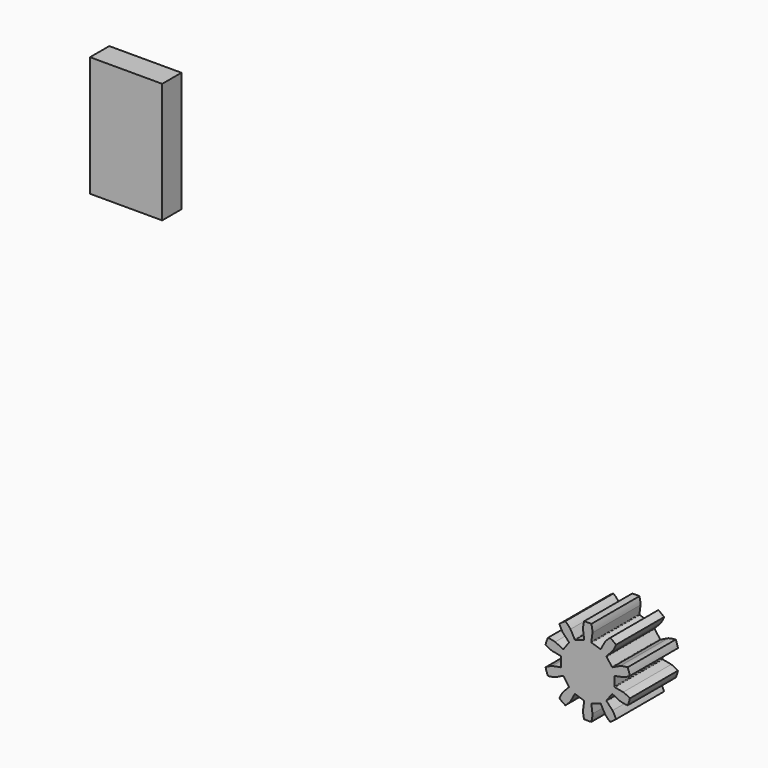
from build123d import *

# Parameters (mm, degrees)
F1_DEPTH = 5
F2_W     = 6
F2_H     = 10
F3_DEPTH = 2


with BuildPart() as f1:
    # F0 (on Front) → F1 (new body)
    with BuildSketch(Plane.XZ):
        with BuildLine():
            ThreePointArc((0.391763, 2.97431), (0.364898, 3.28374), (0.3, 3.587478))
            ThreePointArc((0.3, 3.587478), (0, 3.6), (-0.3, 3.587478))
            ThreePointArc((-0.3, 3.587478), (-0.364898, 3.28374), (-0.391763, 2.97431))
            Line((-0.391763, 2.97431), (-0.299872, 2.276662))
            ThreePointArc((-0.299872, 2.276662), (-0.307986, 2.239669), (-0.337881, 2.216417))
            Line((-0.337881, 2.216417), (-1.029426, 1.991721))
            ThreePointArc((-1.029426, 1.991721), (-1.067278, 1.99296), (-1.095587, 2.018119))
            Line((-1.095587, 2.018119), (-1.431313, 2.63654))
            ThreePointArc((-1.431313, 2.63654), (-1.634926, 2.871083), (-1.865962, 3.078666))
            ThreePointArc((-1.865962, 3.078666), (-2.116027, 2.912461), (-2.351372, 2.725995))
            ThreePointArc((-2.351372, 2.725995), (-2.225342, 2.44212), (-2.065198, 2.175995))
            Line((-2.065198, 2.175995), (-1.58079, 1.665598))
            ThreePointArc((-1.58079, 1.665598), (-1.565611, 1.630901), (-1.576129, 1.594518))
            Line((-1.576129, 1.594518), (-2.003527, 1.006254))
            ThreePointArc((-2.003527, 1.006254), (-2.034879, 0.985008), (-2.072569, 0.988722))
            Line((-2.072569, 0.988722), (-2.707676, 1.291701))
            ThreePointArc((-2.707676, 1.291701), (-3.010263, 1.36177), (-3.319189, 1.393909))
            ThreePointArc((-3.319189, 1.393909), (-3.423803, 1.112461), (-3.5046, 0.823275))
            ThreePointArc((-3.5046, 0.823275), (-3.235782, 0.667693), (-2.949799, 0.546524))
            Line((-2.949799, 0.546524), (-2.2579, 0.418332))
            ThreePointArc((-2.2579, 0.418332), (-2.225225, 0.399183), (-2.212349, 0.363567))
            Line((-2.212349, 0.363567), (-2.212349, -0.363567))
            ThreePointArc((-2.212349, -0.363567), (-2.225225, -0.399183), (-2.2579, -0.418332))
            Line((-2.2579, -0.418332), (-2.949799, -0.546524))
            ThreePointArc((-2.949799, -0.546524), (-3.235782, -0.667693), (-3.5046, -0.823275))
            ThreePointArc((-3.5046, -0.823275), (-3.423803, -1.112461), (-3.319189, -1.393909))
            ThreePointArc((-3.319189, -1.393909), (-3.010263, -1.36177), (-2.707676, -1.291701))
            Line((-2.707676, -1.291701), (-2.072569, -0.988722))
            ThreePointArc((-2.072569, -0.988722), (-2.034879, -0.985008), (-2.003527, -1.006254))
            Line((-2.003527, -1.006254), (-1.576129, -1.594518))
            ThreePointArc((-1.576129, -1.594518), (-1.565611, -1.630901), (-1.58079, -1.665598))
            Line((-1.58079, -1.665598), (-2.065198, -2.175995))
            ThreePointArc((-2.065198, -2.175995), (-2.225342, -2.44212), (-2.351372, -2.725995))
            ThreePointArc((-2.351372, -2.725995), (-2.116027, -2.912461), (-1.865962, -3.078666))
            ThreePointArc((-1.865962, -3.078666), (-1.634926, -2.871083), (-1.431313, -2.63654))
            Line((-1.431313, -2.63654), (-1.095587, -2.018119))
            ThreePointArc((-1.095587, -2.018119), (-1.067278, -1.99296), (-1.029426, -1.991721))
            Line((-1.029426, -1.991721), (-0.337881, -2.216417))
            ThreePointArc((-0.337881, -2.216417), (-0.307986, -2.239669), (-0.299872, -2.276662))
            Line((-0.299872, -2.276662), (-0.391763, -2.97431))
            ThreePointArc((-0.391763, -2.97431), (-0.364898, -3.28374), (-0.3, -3.587478))
            ThreePointArc((-0.3, -3.587478), (0, -3.6), (0.3, -3.587478))
            ThreePointArc((0.3, -3.587478), (0.364898, -3.28374), (0.391763, -2.97431))
            Line((0.391763, -2.97431), (0.299872, -2.276662))
            ThreePointArc((0.299872, -2.276662), (0.307986, -2.239669), (0.337881, -2.216417))
            Line((0.337881, -2.216417), (1.029426, -1.991721))
            ThreePointArc((1.029426, -1.991721), (1.067278, -1.99296), (1.095587, -2.018119))
            Line((1.095587, -2.018119), (1.431313, -2.63654))
            ThreePointArc((1.431313, -2.63654), (1.634926, -2.871083), (1.865962, -3.078666))
            ThreePointArc((1.865962, -3.078666), (2.116027, -2.912461), (2.351372, -2.725995))
            ThreePointArc((2.351372, -2.725995), (2.225342, -2.44212), (2.065198, -2.175995))
            Line((2.065198, -2.175995), (1.58079, -1.665598))
            ThreePointArc((1.58079, -1.665598), (1.565611, -1.630901), (1.576129, -1.594518))
            Line((1.576129, -1.594518), (2.003527, -1.006254))
            ThreePointArc((2.003527, -1.006254), (2.034879, -0.985008), (2.072569, -0.988722))
            Line((2.072569, -0.988722), (2.707676, -1.291701))
            ThreePointArc((2.707676, -1.291701), (3.010263, -1.36177), (3.319189, -1.393909))
            ThreePointArc((3.319189, -1.393909), (3.423803, -1.112461), (3.5046, -0.823275))
            ThreePointArc((3.5046, -0.823275), (3.235782, -0.667693), (2.949799, -0.546524))
            Line((2.949799, -0.546524), (2.2579, -0.418332))
            ThreePointArc((2.2579, -0.418332), (2.225225, -0.399183), (2.212349, -0.363567))
            Line((2.212349, -0.363567), (2.212349, 0.363567))
            ThreePointArc((2.212349, 0.363567), (2.225225, 0.399183), (2.2579, 0.418332))
            Line((2.2579, 0.418332), (2.949799, 0.546524))
            ThreePointArc((2.949799, 0.546524), (3.235782, 0.667693), (3.5046, 0.823275))
            ThreePointArc((3.5046, 0.823275), (3.423803, 1.112461), (3.319189, 1.393909))
            ThreePointArc((3.319189, 1.393909), (3.010263, 1.36177), (2.707676, 1.291701))
            Line((2.707676, 1.291701), (2.072569, 0.988722))
            ThreePointArc((2.072569, 0.988722), (2.034879, 0.985008), (2.003527, 1.006254))
            Line((2.003527, 1.006254), (1.576129, 1.594518))
            ThreePointArc((1.576129, 1.594518), (1.565611, 1.630901), (1.58079, 1.665598))
            Line((1.58079, 1.665598), (2.065198, 2.175995))
            ThreePointArc((2.065198, 2.175995), (2.225342, 2.44212), (2.351372, 2.725995))
            ThreePointArc((2.351372, 2.725995), (2.116027, 2.912461), (1.865962, 3.078666))
            ThreePointArc((1.865962, 3.078666), (1.634926, 2.871083), (1.431313, 2.63654))
            Line((1.431313, 2.63654), (1.095587, 2.018119))
            ThreePointArc((1.095587, 2.018119), (1.067278, 1.99296), (1.029426, 1.991721))
            Line((1.029426, 1.991721), (0.337881, 2.216417))
            ThreePointArc((0.337881, 2.216417), (0.307986, 2.239669), (0.299872, 2.276662))
            Line((0.299872, 2.276662), (0.391763, 2.97431))
        make_face()
    extrude(amount=F1_DEPTH)


with BuildPart() as f3:
    # F2 (on Front) → F3 (new body)
    with BuildSketch(Plane.XZ):
        with Locations((-40.790888, 24.521398)):
            Rectangle(F2_W, F2_H)
    extrude(amount=F3_DEPTH)


solid = Compound([f1.part, f3.part])
